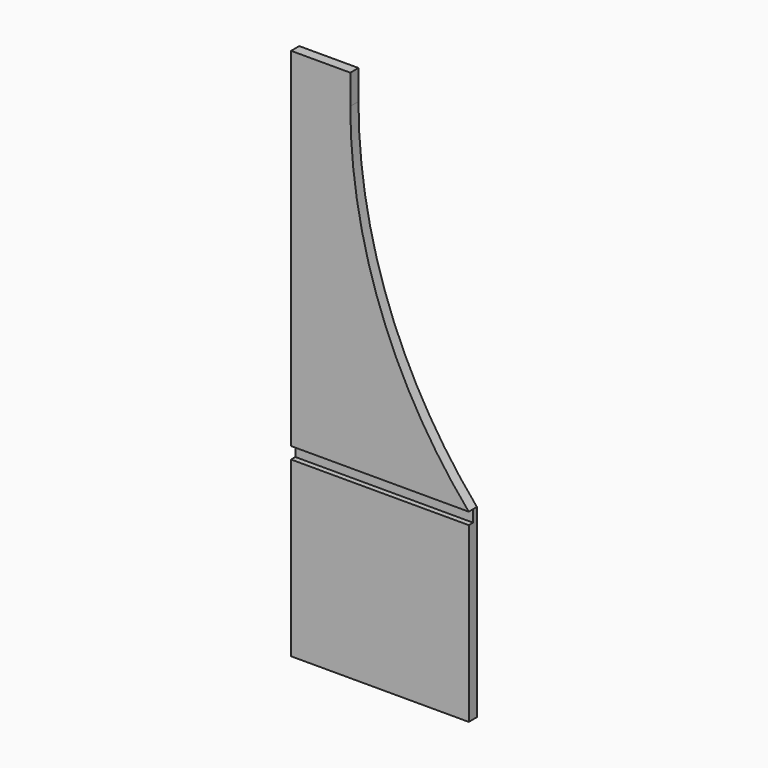
from build123d import *

# Parameters (mm, degrees)
F1_DEPTH = 17.526
F0_W     = 304.8
F0_H     = 20.32
F2_DEPTH = 8.255
F0_H_2   = 297.18
F3_DEPTH = 17.526


with BuildPart() as f1:
    # F0 (on Front) → F1 (new body)
    with BuildSketch(Plane.XZ):
        with BuildLine():
            Line((8.833553, 146.481255), (-92.766447, 146.481255))
            Line((-92.766447, 146.481255), (-92.766447, -450.418745))
            Line((-92.766447, -450.418745), (212.033553, -450.418745))
            ThreePointArc((212.033553, -450.418745), (61.279772, -195.656633), (8.833553, 95.684799))
            Line((8.833553, 95.684799), (8.833553, 146.481255))
        make_face()
    extrude(amount=F1_DEPTH)

    # F0 (on Front) → F2 (join)
    with BuildSketch(Plane.XZ):
        with Locations((59.633553, -460.578745)):
            Rectangle(F0_W, F0_H)
    extrude(amount=F2_DEPTH)

    # F0 (on Front) → F3 (join)
    with BuildSketch(Plane.XZ):
        with Locations((59.633553, -619.328745)):
            Rectangle(F0_W, F0_H_2)
    extrude(amount=F3_DEPTH)


solid = f1.part
